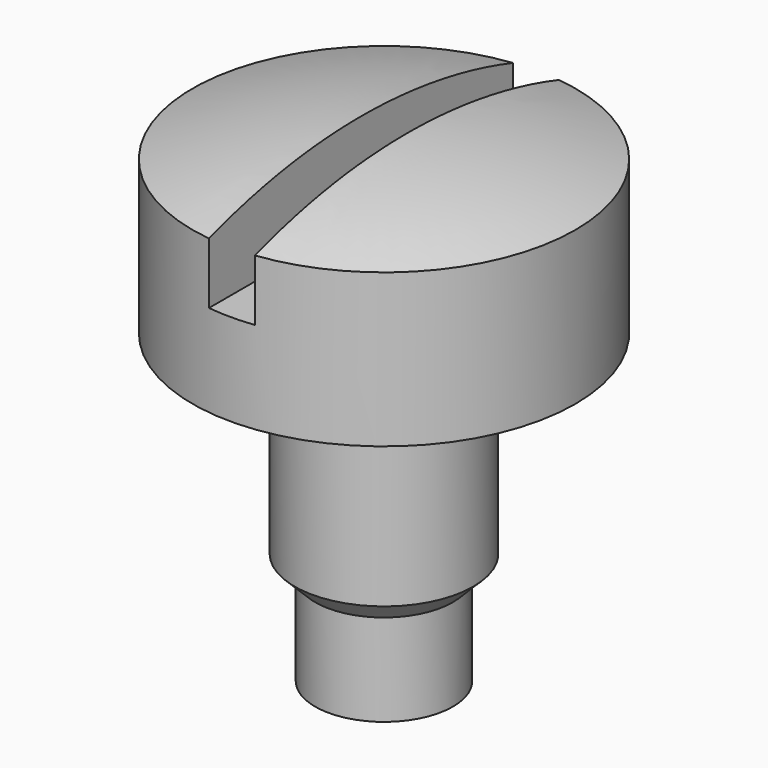
from build123d import *

# Parameters (mm, degrees)
F2_W     = 0.3
F2_H     = 0.65
F3_DEPTH = 12.5
F4_SCALE = 3


with BuildPart() as f1:
    # F0 (on Front) → F1 (revolve)
    with BuildSketch(Plane.XZ):
        Polygon((0, 3), (0, 0), (0.45, 0), (0.45, 0.6), (0.5833333333, 0.7333333333), (0.5833333333, 2), (1.25, 2), (1.25, 3), align=None)
        with BuildLine():
            Line((0, 3.2003289616), (0, 3))
            Line((0, 3), (1.25, 3))
            ThreePointArc((1.25, 3), (0.6329754523, 3.1499292043), (0, 3.2003289616))
        make_face()
    revolve(axis=Axis((0, 0, 1.5), (0, 0, -1)))

    # F2 (on Front) → F3 (cut, symmetric)
    with BuildSketch(Plane.XZ):
        with Locations((0, 2.9253289616)):
            Rectangle(F2_W, F2_H)
    extrude(amount=F3_DEPTH, both=True, mode=Mode.SUBTRACT)


with BuildPart() as f1_1:
    # F4: moved
    add(f1.part.scale(F4_SCALE))


solid = f1_1.part
